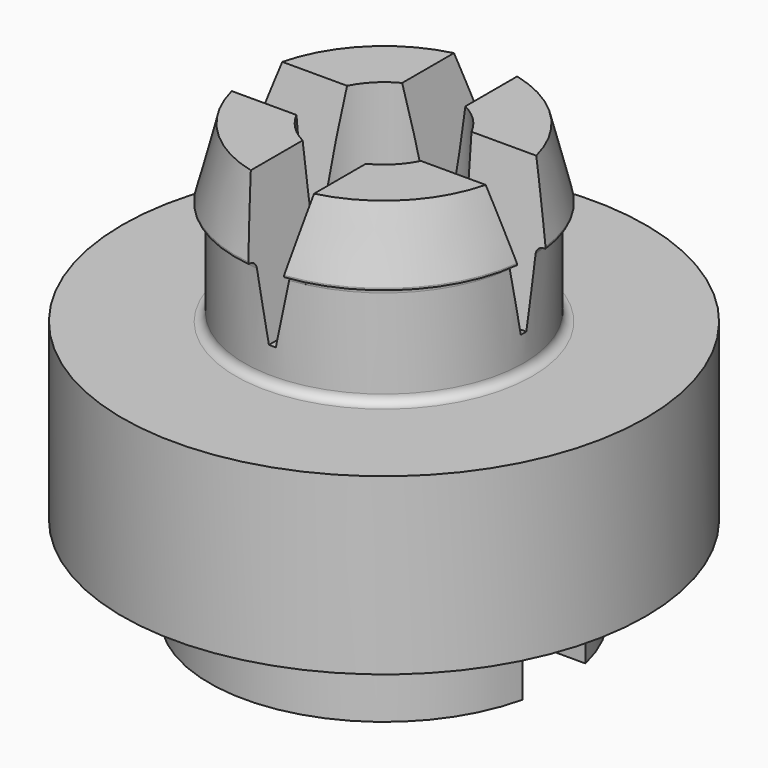
from build123d import *

# Parameters (mm, degrees)
SKETCH_R        = 10
PAD_DEPTH       = 10
PAD_DEPTH_BACK  = 5
SKETCH001_R     = 12.5
POCKET_DEPTH    = 11
SKETCH003_R     = 2.5
POCKET002_DEPTH = 7.5
SKETCH004_W     = 40
SKETCH004_H     = 4.5
POCKET003_DEPTH = 8
FILLET_R        = 2
SKETCH005_R     = 8
PAD001_DEPTH    = 20
SKETCH006_R     = 15
PAD002_DEPTH    = 10
SKETCH008_R     = 8.5
PAD003_DEPTH    = 4
CHAMFER_SIZE2   = 1
CHAMFER_SIZE    = 3.9
SKETCH009_R     = 4
POCKET004_DEPTH = 22
SKETCH010_R     = 7.5
POCKET005_DEPTH = 8
POCKET006_DEPTH = 11
FILLET001_R     = 0.4
FILLET002_R     = 0.5
CHAMFER001_SIZE = 1
POCKET007_DEPTH = 10
CHAMFER002_SIZE = 1


with BuildPart() as feet2:
    # Sketch (on XY_Plane of Origin) → Pad (new body, two sides)
    with BuildSketch(Plane.XY) as pad_sk:
        Circle(SKETCH_R)
    extrude(amount=PAD_DEPTH)
    extrude(pad_sk.sketch, amount=-PAD_DEPTH_BACK)

    # Sketch001 (on XZ_Plane of Origin) → Pocket (cut, symmetric)
    with BuildSketch(Plane.XZ):
        with Locations((0, 17.5)):
            Circle(SKETCH001_R)
    extrude(amount=POCKET_DEPTH, both=True, mode=Mode.SUBTRACT)

    # Sketch003 (on XY_Plane of Origin) → Pocket002 (cut, symmetric)
    with BuildSketch(Plane.XY):
        Circle(SKETCH003_R)
    extrude(amount=POCKET002_DEPTH, both=True, mode=Mode.SUBTRACT)

    # Sketch004 (on XY_Plane of Origin) → Pocket003 (cut)
    with BuildSketch(Plane.XY):
        Rectangle(SKETCH004_W, SKETCH004_H)
    extrude(amount=-POCKET003_DEPTH, mode=Mode.SUBTRACT)

    # Fillet
    fillet_edges = [feet2.edges().sort_by_distance(p)[0] for p in [
        (9.93569, 1.132282, 0),
        (2.118291, -1.327721, 0),
        (-10, 0, 0),
        (-2.5, 0, 0),
    ]]
    fillet(fillet_edges, radius=FILLET_R)


with BuildPart() as feet3:
    # Sketch005 (on XY_Plane001 of Origin002) → Pad001 (new body)
    with BuildSketch(Plane.XY):
        Circle(SKETCH005_R)
    extrude(amount=PAD001_DEPTH)

    # Sketch006 (on XY_Plane001 of Origin002) → Pad002 (join)
    with BuildSketch(Plane.XY):
        Circle(SKETCH006_R)
    extrude(amount=PAD002_DEPTH)

    # Sketch008 (on XY_Plane001 of Origin002) → Pad003 (join)
    with BuildSketch(Plane.XY.offset(20)):
        Circle(SKETCH008_R)
    extrude(amount=-PAD003_DEPTH)

    # Chamfer
    chamfer_edges = [feet3.edges().sort_by_distance(p)[0] for p in [
        (-8.5, 0, 20),
    ]]
    chamfer_side = feet3.faces().sort_by_distance((-8.5, 0, 18))[0]
    chamfer(chamfer_edges, length=CHAMFER_SIZE, length2=CHAMFER_SIZE2, reference=chamfer_side)

    # Sketch009 (on XY_Plane001 of Origin002) → Pocket004 (cut)
    with BuildSketch(Plane.XY):
        Circle(SKETCH009_R)
    extrude(amount=POCKET004_DEPTH, mode=Mode.SUBTRACT)

    # Sketch010 (on XY_Plane001 of Origin002) → Pocket005 (cut)
    with BuildSketch(Plane.XY):
        Circle(SKETCH010_R)
    extrude(amount=POCKET005_DEPTH, mode=Mode.SUBTRACT)

    # Sketch011 (on YZ_Plane001 of Origin002) → Pocket006 (cut, symmetric)
    with BuildSketch(Plane.YZ):
        Polygon((0, 11.029764), (-2, 20.929764), (2, 20.929764), align=None)
    extrude(amount=POCKET006_DEPTH, both=True, mode=Mode.SUBTRACT)

    # Fillet001
    fillet001_edges = [feet3.edges().sort_by_distance(p)[0] for p in [
        (0, -8, 16),
        (0, 8, 16),
    ]]
    fillet(fillet001_edges, radius=FILLET001_R)

    # Fillet002
    fillet002_edges = [feet3.edges().sort_by_distance(p)[0] for p in [
        (-8, 0, 10),
    ]]
    fillet(fillet002_edges, radius=FILLET002_R)

    # Chamfer001
    chamfer001_edges = [feet3.edges().sort_by_distance(p)[0] for p in [
        (6, 0, 11.029764),
        (-6, 0, 11.029764),
    ]]
    chamfer(chamfer001_edges, length=CHAMFER001_SIZE)

    # Sketch012 (on YZ_Plane001 of Origin002) → Pocket007 (cut, symmetric)
    with BuildSketch(Plane(origin=(0, 0, 0), x_dir=(-1, 0, 0), z_dir=(0, 1, 0))):
        Polygon((0, 11.029764), (-2, 20.929764), (2, 20.929764), align=None)
    extrude(amount=POCKET007_DEPTH, both=True, mode=Mode.SUBTRACT)

    # Chamfer002
    chamfer002_edges = [feet3.edges().sort_by_distance(p)[0] for p in [
        (0, -6, 11.029764),
        (0, 6, 11.029764),
    ]]
    chamfer(chamfer002_edges, length=CHAMFER002_SIZE)


solid = Compound([feet2.part, feet3.part])
